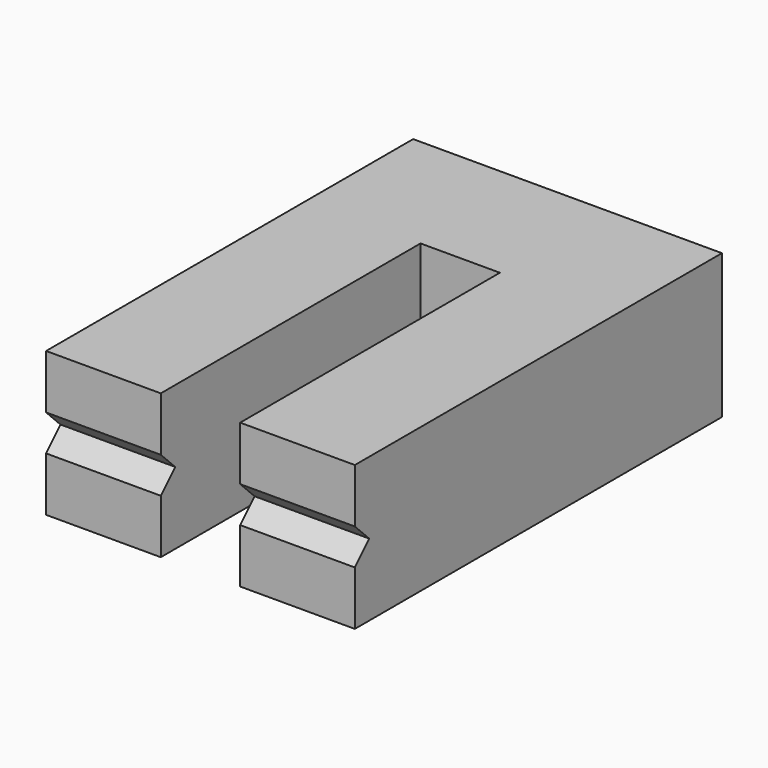
from build123d import *

# Parameters (mm, degrees)
F0_W     = 20.193
F0_H     = 57.15
F0_H_2   = 23.622
F0_W_2   = 13.97
F1_DEPTH = 25.4
F3_DEPTH = 101.6


with BuildPart() as f1:
    # F0 (on Top) → F1 (new body)
    with BuildSketch(Plane.XY):
        with Locations((-17.0815, -11.811)):
            Rectangle(F0_W, F0_H)
        with Locations((-17.0815, 28.575)):
            Rectangle(F0_W, F0_H_2)
        with Locations((0, 28.575)):
            Rectangle(F0_W_2, F0_H_2)
        with Locations((17.0815, 28.575)):
            Rectangle(F0_W, F0_H_2)
        with Locations((17.0815, -11.811)):
            Rectangle(F0_W, F0_H)
    extrude(amount=F1_DEPTH)

    # F2 (on Right) → F3 (cut, symmetric)
    with BuildSketch(Plane.YZ):
        Polygon((-40.386, 15.875), (-40.386, 12.7), (-37.211, 12.7), align=None)
        Polygon((-40.386, 12.7), (-40.386, 9.525), (-37.211, 12.7), align=None)
    extrude(amount=F3_DEPTH, both=True, mode=Mode.SUBTRACT)


solid = f1.part
